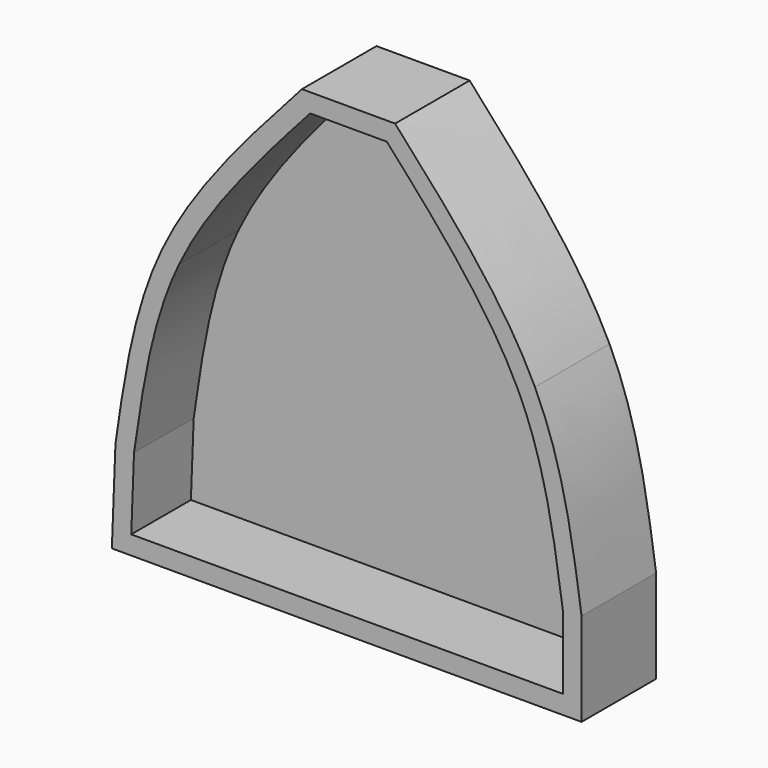
from build123d import *

# Parameters (mm, degrees)
F1_DEPTH = 12.7
F2_T     = -2.54


with BuildPart() as f1:
    # F0 (on Front) → F1 (new body)
    with BuildSketch(Plane.XZ):
        with BuildLine():
            Line((0, 0), (31.75, 0))
            Line((31.75, 0), (31.75, 12.7000007778))
            add(Edge.make_bspline(
                [(25.3999978304, 38.1000004709), (29.2536024334, 30.0036908619), (30.5018012167, 21.3518458199), (31.75, 12.7000007778)],
                knots=[0.5240852488, 0.5240852488, 0.5240852488, 0.5240852488, 1, 1, 1, 1], degree=3))
            Line((25.3999978304, 38.1000004709), (0, 38.1000004709))
            Line((0, 38.1000004709), (0, 0))
        make_face()
        with BuildLine():
            Line((-32.2369039059, 0), (0, 0))
            Line((0, 0), (0, 38.1000004709))
            Line((0, 38.1000004709), (-25.399999693, 38.1000004709))
            add(Edge.make_bspline(
                [(-25.399999693, 38.1000004709), (-29.2536043883, 30.0036909518), (-30.5018027008, 21.3518458648), (-31.7500010133, 12.7000007778)],
                knots=[0.5240852553, 0.5240852553, 0.5240852553, 0.5240852553, 1, 1, 1, 1], degree=3))
            Line((-31.7500010133, 12.7000007778), (-32.2369039059, 0))
        make_face()
        with BuildLine():
            Line((-25.399999693, 38.1000004709), (0, 38.1000004709))
            Line((0, 38.1000004709), (0, 63.5000020266))
            Line((0, 63.5000020266), (-6.3499994576, 63.5000020266))
            add(Edge.make_bspline(
                [(-6.3499994576, 63.5000020266), (-13.7531726904, 55.2578967946), (-21.1563459231, 47.0157915626), (-25.399999693, 38.1000004709)],
                knots=[0, 0, 0, 0, 0.5240852553, 0.5240852553, 0.5240852553, 0.5240852553], degree=3))
        make_face()
        with BuildLine():
            Line((0, 63.5000020266), (0, 38.1000004709))
            Line((0, 38.1000004709), (25.3999978304, 38.1000004709))
            add(Edge.make_bspline(
                [(6.3499999233, 63.5000020266), (13.7531720977, 55.2578967284), (21.1563442721, 47.0157914303), (25.3999978304, 38.1000004709)],
                knots=[0, 0, 0, 0, 0.5240852488, 0.5240852488, 0.5240852488, 0.5240852488], degree=3))
            Line((6.3499999233, 63.5000020266), (0, 63.5000020266))
        make_face()
    extrude(amount=F1_DEPTH)

    # F2
    f2_openings = [f1.faces().sort_by_distance(p)[0] for p in [
        (-0.031333, -12.7, 26.51292),
    ]]
    offset(amount=F2_T, openings=f2_openings, kind=Kind.INTERSECTION)


solid = f1.part
